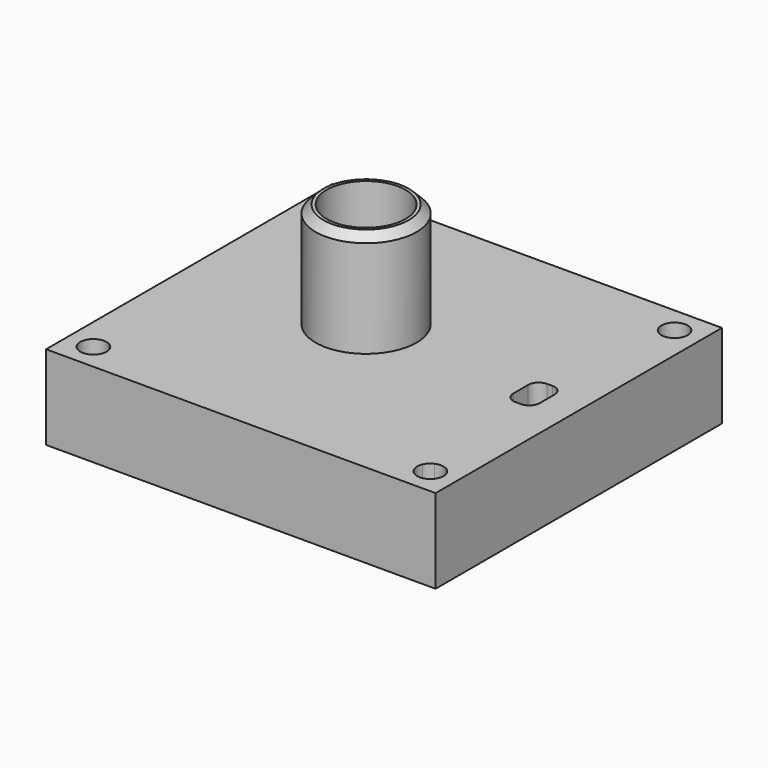
from build123d import *

# Parameters (mm, degrees)
F0_W     = 37
F0_H     = 34
F1_DEPTH = 8
F2_START = 6
F0_R     = 4.8
F2_DEPTH = 2
F3_R     = 1
F4_START = 6
F0_R_2   = 3.75
F4_DEPTH = 12
F5_SIZE  = 0.75


with BuildPart() as f1:
    # F0 (on Top) → F1 (new body)
    with BuildSketch(Plane.XY):
        with Locations((2.5, -1)):
            Rectangle(F0_W, F0_H)
        with BuildLine():
            Line((-12.3543560763, 13), (-11, 13))
            Line((-11, 13), (16, 13))
            Line((16, 13), (17.3543560763, 13))
            ThreePointArc((17.3543560763, 13), (18.2446129454, 14.7236328912), (19.75, 13.5))
            ThreePointArc((19.75, 13.5), (19.1846531969, 12.4541749668), (18, 12.3543560763))
            Line((18, 12.3543560763), (18, 11))
            Line((18, 11), (18, 0.875))
            Line((18, 0.875), (18, -2.875))
            Line((18, -2.875), (18, -13))
            Line((18, -13), (18, -14.3543560763))
            ThreePointArc((18, -14.3543560763), (19.1846531969, -14.4541749668), (19.75, -15.5))
            ThreePointArc((19.75, -15.5), (18.2446129454, -16.7236328912), (17.3543560763, -15))
            Line((17.3543560763, -15), (16, -15))
            Line((16, -15), (-11, -15))
            Line((-11, -15), (-12.3543560763, -15))
            ThreePointArc((-12.3543560763, -15), (-12.2763671088, -15.2446129454), (-12.25, -15.5))
            ThreePointArc((-12.25, -15.5), (-14.5458250332, -16.1846531969), (-13, -14.3543560763))
            Line((-13, -14.3543560763), (-13, -13))
            Line((-13, -13), (-13, 11))
            Line((-13, 11), (-13, 12.3543560763))
            ThreePointArc((-13, 12.3543560763), (-14.5458250332, 14.1846531969), (-12.25, 13.5))
            ThreePointArc((-12.25, 13.5), (-12.2763671088, 13.2446129454), (-12.3543560763, 13))
        make_face(mode=Mode.SUBTRACT)
        with BuildLine():
            Line((-11, -13), (-13, -13))
            Line((-13, -13), (-13, -14.3543560763))
            ThreePointArc((-13, -14.3543560763), (-12.6161165235, -14.6161165235), (-12.3543560763, -15))
            Line((-12.3543560763, -15), (-11, -15))
            Line((-11, -15), (-11, -13))
        make_face()
        with BuildLine():
            Line((18, -14.3543560763), (18, -13))
            Line((18, -13), (16, -13))
            Line((16, -13), (16, -15))
            Line((16, -15), (17.3543560763, -15))
            ThreePointArc((17.3543560763, -15), (17.6161165235, -14.6161165235), (18, -14.3543560763))
        make_face()
        with BuildLine():
            Line((17.3543560763, 13), (16, 13))
            Line((16, 13), (16, 11))
            Line((16, 11), (18, 11))
            Line((18, 11), (18, 12.3543560763))
            ThreePointArc((18, 12.3543560763), (17.6161165235, 12.6161165235), (17.3543560763, 13))
        make_face()
        with BuildLine():
            Line((-11, 11), (-11, 13))
            Line((-11, 13), (-12.3543560763, 13))
            ThreePointArc((-12.3543560763, 13), (-12.6161165235, 12.6161165235), (-13, 12.3543560763))
            Line((-13, 12.3543560763), (-13, 11))
            Line((-13, 11), (-11, 11))
        make_face()
    extrude(amount=F1_DEPTH)

    # F0 (on Top) → F2 (join)
    with BuildSketch(Plane.XY.offset(F2_START)):
        Polygon((16, 13), (-11, 13), (-11, 11), (-13, 11), (-13, -13), (-11, -13), (-11, -15), (16, -15), (16, -13), (18, -13), (18, -2.875), (15.5, -2.875), (15.5, 0.875), (18, 0.875), (18, 11), (16, 11), align=None)
        Circle(F0_R, mode=Mode.SUBTRACT)
    extrude(amount=F2_DEPTH)

    # F3
    f3_edges = [f1.edges().sort_by_distance(p)[0] for p in [
        (15.5, 0.875, 7),
        (18, 0.875, 7),
        (15.5, -2.875, 7),
        (18, -2.875, 7),
    ]]
    fillet(f3_edges, radius=F3_R)

    # F0 (on Top) → F4 (join)
    with BuildSketch(Plane.XY.offset(F4_START)):
        Circle(F0_R)
        Circle(F0_R_2, mode=Mode.SUBTRACT)
    extrude(amount=F4_DEPTH)

    # F5
    f5_edges = [f1.edges().sort_by_distance(p)[0] for p in [
        (-4.8, 0, 18),
    ]]
    chamfer(f5_edges, length=F5_SIZE)


solid = f1.part
